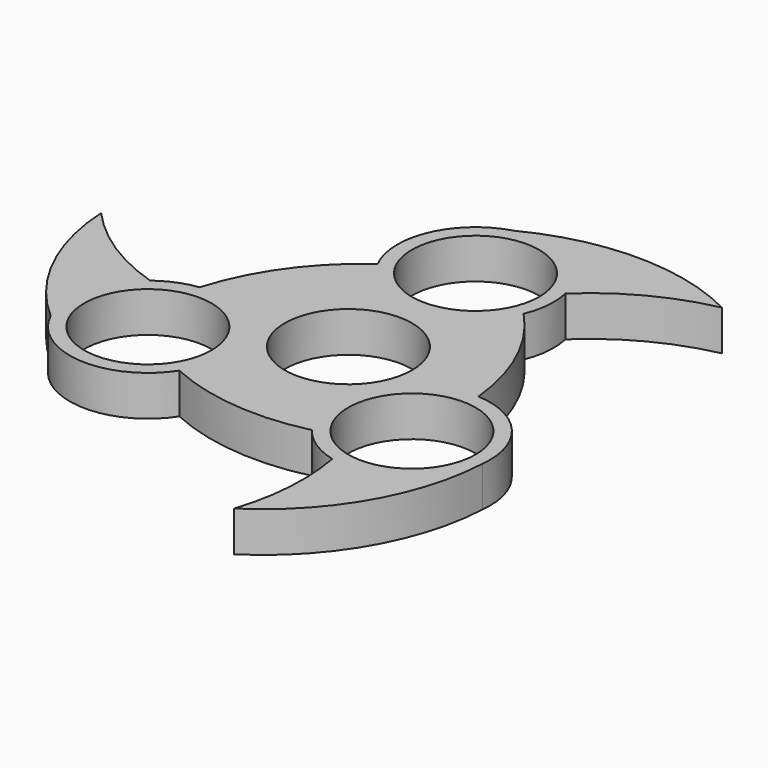
from build123d import *

# Parameters (mm, degrees)
F0_R     = 11.05
F1_DEPTH = 7


with BuildPart() as f1:
    # F0 (on Top) → F1 (new body)
    with BuildSketch(Plane.XY):
        with BuildLine():
            ThreePointArc((22.896048, -0.425115), (19.615331, 11.84139), (12.511702, 22.36606))
            ThreePointArc((12.511702, 22.36606), (13.49945, 26.398625), (13.219824, 30.540972))
            ThreePointArc((13.219824, 30.540972), (6.895477, 39.232223), (-3.767974, 40.583529))
            ThreePointArc((-3.767974, 40.583529), (-12.433388, 32.954372), (-12.072297, 21.414743))
            ThreePointArc((-12.072297, 21.414743), (-21.055042, 12.440306), (-26.61786, 1.026048))
            ThreePointArc((-26.61786, 1.026048), (-30.028126, 0.118218), (-33.088304, -1.639445))
            ThreePointArc((-33.088304, -1.639445), (-38.026761, -9.181893), (-37.139672, -18.153511))
            ThreePointArc((-37.139672, -18.153511), (-25.802086, -25.928052), (-13.501996, -19.788661))
            ThreePointArc((-13.501996, -19.788661), (-1.238533, -23.080729), (11.427914, -22.19114))
            ThreePointArc((11.427914, -22.19114), (14.736258, -25.27313), (18.874423, -27.09505))
            ThreePointArc((18.874423, -27.09505), (29.904667, -25.095182), (35.653791, -15.4716))
            ThreePointArc((35.653791, -15.4716), (32.523786, -5.193681), (22.896048, -0.425115))
        make_face()
        with Locations((-24.866992, -12.410357)):
            Circle(F0_R, mode=Mode.SUBTRACT)
        with Locations((22.188747, -13.956642)):
            Circle(F0_R, mode=Mode.SUBTRACT)
        Circle(F0_R, mode=Mode.SUBTRACT)
        with Locations((0, 27.567966)):
            Circle(F0_R, mode=Mode.SUBTRACT)
        with BuildLine():
            ThreePointArc((-3.767974, 40.583529), (6.895477, 39.232223), (13.219824, 30.540972))
            ThreePointArc((13.219824, 30.540972), (22.092216, 36.885736), (32.353878, 40.583529))
            ThreePointArc((32.353878, 40.583529), (14.292952, 44.920852), (-3.767974, 40.583529))
        make_face()
        with BuildLine():
            ThreePointArc((17.592865, -46.754042), (30.37956, -33.281483), (35.653791, -15.4716))
            ThreePointArc((35.653791, -15.4716), (29.904667, -25.095182), (18.874423, -27.09505))
            ThreePointArc((18.874423, -27.09505), (19.469277, -37.005096), (17.592865, -46.754042))
        make_face()
        with BuildLine():
            ThreePointArc((-37.139672, -18.153511), (-38.026761, -9.181893), (-33.088304, -1.639445))
            ThreePointArc((-33.088304, -1.639445), (-42.633805, 2.854254), (-50.663183, 9.698156))
            ThreePointArc((-50.663183, 9.698156), (-46.722876, -5.597646), (-37.139672, -18.153511))
        make_face()
    extrude(amount=F1_DEPTH)


solid = f1.part
